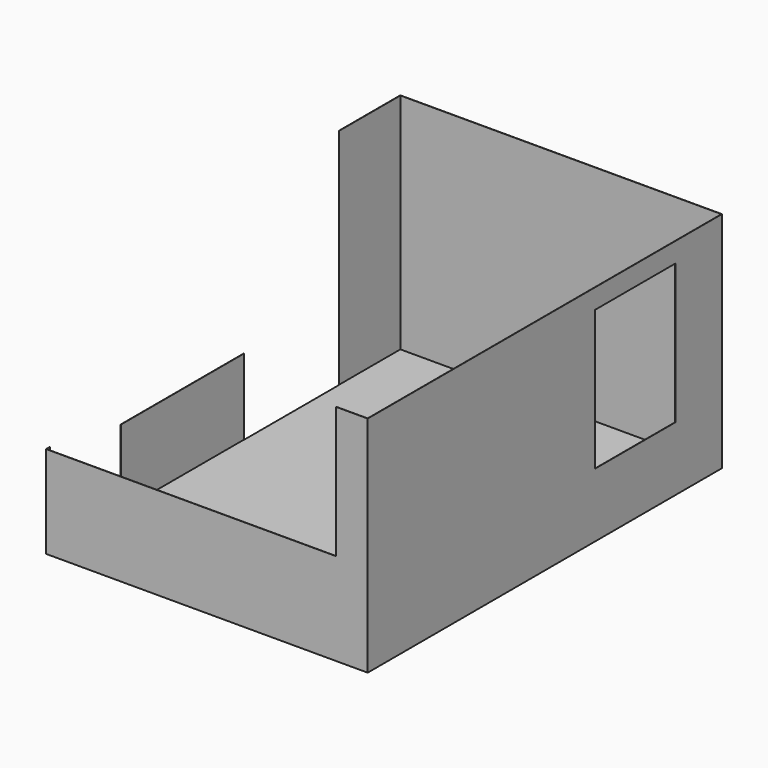
from build123d import *

# Parameters (mm, degrees)
F0_W      = 3505.2
F0_H      = 4826
F1_DEPTH  = 2438.4
F2_T      = -2.54
F3_W      = 1295.4
F3_H      = 2438.4
F3_W_2    = 969.0292786658
F4_DEPTH  = 5.08
F5_W      = 1092.2
F5_H      = 1524
F6_DEPTH  = 25.4
F7_W      = 952.5
F7_H      = 2286
F8_DEPTH  = 76.2
F10_R     = 279.4
F11_DEPTH = 304.8
F13_W     = 1676.4
F13_H     = 1609.8242696762
F14_DEPTH = 25.4
F15_W     = 3953.6780118942
F15_H     = 1432.5200017929
F16_DEPTH = 127


with BuildPart() as f1:
    # F0 (on Top) → F1 (new body)
    with BuildSketch(Plane.XY):
        with Locations((-1703.8764625251, 2366.0292786658)):
            Rectangle(F0_W, F0_H)
    extrude(amount=F1_DEPTH)

    # F2
    f2_openings = [f1.faces().sort_by_distance(p)[0] for p in [
        (-1703.876463, 2366.029279, 2438.4),
    ]]
    offset(amount=F2_T, openings=f2_openings)

    # F3 (on face) → F4 (cut)
    with BuildSketch(Plane(origin=(-3456.4764625251, 0, 0), x_dir=(0, -1, 0), z_dir=(-1, 0, 0))):
        with Locations((-3293.1292786658, 1219.2)):
            Rectangle(F3_W, F3_H)
        with Locations((-484.5146393329, 1219.2)):
            Rectangle(F3_W_2, F3_H)
    extrude(amount=-F4_DEPTH, mode=Mode.SUBTRACT)

    # F5 (on face) → F6 (cut)
    with BuildSketch(Plane.YZ.offset(48.7235374749)):
        with Locations((3597.9292786658, 1460.5)):
            Rectangle(F5_W, F5_H)
    extrude(amount=-F6_DEPTH, mode=Mode.SUBTRACT)

    # F7 (on face) → F8 (join)
    with BuildSketch(Plane(origin=(46.1835374749, 0, 0), x_dir=(0, -1, 0), z_dir=(-1, 0, 0))):
        with Locations((-899.1792786658, 1143)):
            Rectangle(F7_W, F7_H)
    extrude(amount=F8_DEPTH)

    # F13 (on face) → F14 (cut)
    with BuildSketch(Plane.YZ.offset(-3453.9364625251)):
        with Locations((1807.2292786658, 1633.4878651619)):
            Rectangle(F13_W, F13_H)
    extrude(amount=-F14_DEPTH, mode=Mode.SUBTRACT)

    # F15 (on face) → F16 (cut)
    with BuildSketch(Plane.XZ.offset(46.9707213342)):
        with Locations((-2275.5261063576, 1722.1399991035)):
            Rectangle(F15_W, F15_H)
    extrude(amount=-F16_DEPTH, mode=Mode.SUBTRACT)


with BuildPart() as f11:
    # F10 (on offset) → F11 (new body)
    with BuildSketch(Plane.XY.offset(1727.2)):
        with Locations((-3387.9356384277, -986.3669872284)):
            Circle(F10_R)
    extrude(amount=-F11_DEPTH)


solid = f1.part
